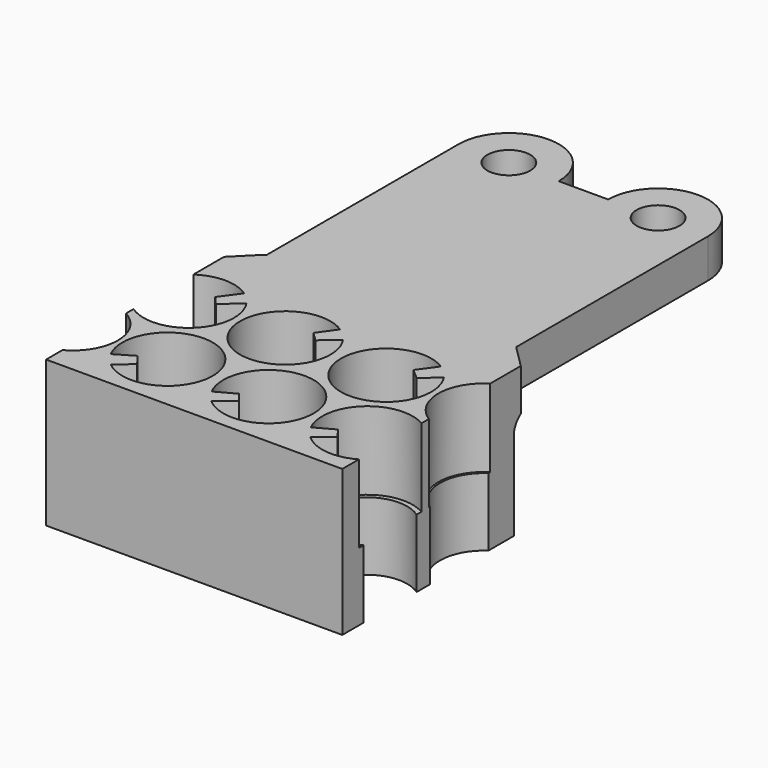
from build123d import *

# Parameters (mm, degrees)
BOX001_W                  = 15.2
BOX001_H                  = 18
BOX001_DEPTH              = 10
PAD010_DEPTH              = 3
SKETCH009_R               = 2.08
PAD009_DEPTH              = 3.5
SKETCH008_R               = 1.1
SKETCH008_R_2             = 2.32
PAD008_DEPTH              = 4
CHAMFER005_SIZE           = 1.16
FILLET001_R               = 1
FUSION004_PLACEMENT_ANGLE = 180


with BuildPart() as obj1:
    # Box001 → Box001 (new body)
    with BuildSketch(Plane(origin=(0, 11, 2), x_dir=(1, 0, 0), z_dir=(0, 0, 1))):
        with Locations((7.6, 9)):
            Rectangle(BOX001_W, BOX001_H)
    extrude(amount=BOX001_DEPTH)


with BuildPart() as pad010:
    # Sketch010 → Pad010 (new body)
    with BuildSketch(Plane.XY):
        Polygon((2.378666, 9.538552), (3.141544, 8.484614), (2.605246, 8.030906), (1.603856, 8.879459), align=None)
        Polygon((6.78436, 8.940759), (7.81191, 8.046443), (8.278705, 8.496499), (7.513181, 9.568461), align=None)
        Polygon((11.639661, 9.077468), (12.904972, 8.018862), (13.299574, 8.474274), (12.400975, 9.695749), align=None)
        Polygon((12.104583, 1.976359), (13.30563, 0.90266), (13.898616, 1.728947), (12.545185, 2.537632), align=None)
        Polygon((8.700089, 1.748501), (7.31743, 2.508724), (6.930422, 2.025162), (8.137034, 1.029802), align=None)
        Polygon((2.273056, 2.567461), (3.508846, 1.882398), (2.897784, 1.211809), (1.893881, 2.05588), align=None)
    extrude(amount=PAD010_DEPTH)


with BuildPart() as pad009:
    # Sketch009 → Pad009 (new body)
    with BuildSketch(Plane.XY.offset(4)):
        with BuildLine():
            Line((0, 0), (15.2, 0))
            Line((15.2, 1.15374), (15.2, 0))
            ThreePointArc((15.2, 4.942574), (14.191377, 3.048157), (15.2, 1.15374))
            Line((15.2, 5.803221), (15.2, 4.942574))
            ThreePointArc((15.2, 9.17326), (11.900529, 7.488241), (15.2, 5.803221))
            Line((15.2, 9.17326), (15.2, 11))
            Line((0, 11), (15.2, 11))
            Line((0, 9.37218), (0, 11))
            ThreePointArc((0, 5.625638), (0.983556, 7.498909), (0, 9.37218))
            Line((0, 4.762372), (0, 5.625638))
            ThreePointArc((0, 1.365976), (3.281052, 3.064174), (0, 4.762372))
            Line((0, 0), (0, 1.365976))
        make_face()
        with Locations((3.71, 7.45)):
            Circle(SKETCH009_R, mode=Mode.SUBTRACT)
        with Locations((8.886504, 7.45)):
            Circle(SKETCH009_R, mode=Mode.SUBTRACT)
        with Locations((11.417808, 3.064059)):
            Circle(SKETCH009_R, mode=Mode.SUBTRACT)
        with Locations((6.227885, 3.050071)):
            Circle(SKETCH009_R, mode=Mode.SUBTRACT)
    extrude(amount=PAD009_DEPTH)


with BuildPart() as cut001:
    # Sketch008 → Pad008 (new body)
    with BuildSketch(Plane.XY):
        with BuildLine():
            Line((1.167192, 12.607396), (1.167192, 24.915267))
            ThreePointArc((6.287975, 24.916916), (3.726759, 27.476896), (1.167192, 24.915267))
            Line((6.287975, 24.916916), (8.825715, 24.916916))
            ThreePointArc((13.968192, 24.934157), (11.38834, 27.49472), (8.825715, 24.916916))
            Line((13.968192, 12.572419), (13.968192, 24.934157))
            Line((15.2, 12.572419), (13.968192, 12.572419))
            Line((15.2, 9.446953), (15.2, 12.572419))
            ThreePointArc((15.2, 9.446953), (11.577912, 7.526805), (15.2, 5.606658))
            Line((15.2, 5.606658), (15.2, 5.125616))
            ThreePointArc((15.2, 5.125616), (13.98768, 3.087125), (15.2, 1.048634))
            Line((15.2, 1.048634), (15.2, 0))
            Line((0, 0), (15.2, 0))
            Line((0, 0), (0, 1.066252))
            ThreePointArc((0, 1.066252), (3.486123, 3.071883), (0, 5.077515))
            Line((0, 5.077515), (0, 5.551994))
            ThreePointArc((0, 5.551994), (1.087704, 7.51766), (0, 9.483327))
            Line((0, 9.483327), (0, 12.607396))
            Line((0, 12.607396), (1.167192, 12.607396))
        make_face()
        with Locations((3.727584, 24.916504)):
            Circle(SKETCH008_R, mode=Mode.SUBTRACT)
        with Locations((11.392031, 24.923481)):
            Circle(SKETCH008_R, mode=Mode.SUBTRACT)
        with Locations((3.71, 7.45)):
            Circle(SKETCH008_R_2, mode=Mode.SUBTRACT)
        with Locations((8.886504, 7.45)):
            Circle(SKETCH008_R_2, mode=Mode.SUBTRACT)
        with Locations((11.417808, 3.064059)):
            Circle(SKETCH008_R_2, mode=Mode.SUBTRACT)
        with Locations((6.227885, 3.050071)):
            Circle(SKETCH008_R_2, mode=Mode.SUBTRACT)
    extrude(amount=PAD008_DEPTH)

    # Chamfer005
    chamfer005_edges = [cut001.edges().sort_by_distance(p)[0] for p in [
        (0, 12.607396, 2),
        (15.2, 12.572419, 2),
    ]]
    chamfer(chamfer005_edges, length=CHAMFER005_SIZE)

    # Fusion002: union Pad010, Pad009
    add(pad010.part)
    add(pad009.part)

    # Cut001: cut obj1
    add(obj1.part, mode=Mode.SUBTRACT)


with BuildPart() as fillet001:
    # Fillet001 base: copy of Cut001
    add(cut001.part)

    # Fillet001
    fillet001_edges = [fillet001.edges().sort_by_distance(p)[0] for p in [
        (7.6, 11, 2),
    ]]
    fillet(fillet001_edges, radius=FILLET001_R)


with BuildPart() as fusion004:
    # Fusion004 base: copy of Cut001
    add(cut001.part)

    # Fusion004: union Fillet001
    add(fillet001.part)


with BuildPart() as fusion004_1:
    # Fusion004 placement: moved
    add(fusion004.part.moved(Location((15.18, -8, 6.1))).rotate(Axis((15.18, -8, 6.1), (0, 1, 0)), FUSION004_PLACEMENT_ANGLE))


solid = fusion004_1.part
